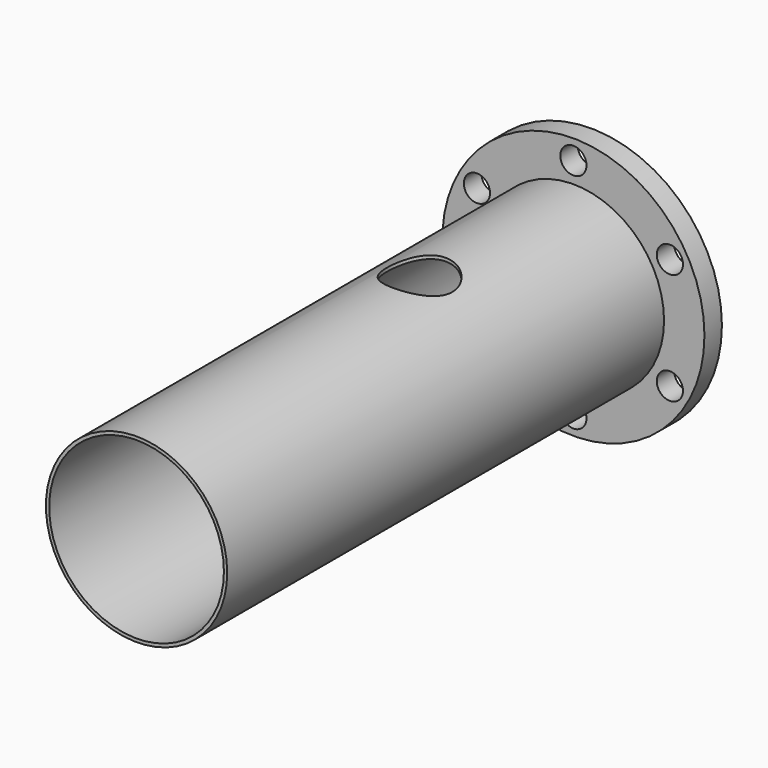
from build123d import *

# Parameters (mm, degrees)
F0_R          = 60
F0_R_2        = 6
F0_R_3        = 40
F1_DEPTH      = 10
F2_R          = 41.5
F2_R_2        = 40
F3_DEPTH      = 250
F4_R          = 15
F5_DEPTH      = 70.8
F5_DEPTH_BACK = 74.6


with BuildPart() as f1:
    # F0 (on Front) → F1 (new body)
    with BuildSketch(Plane.XZ):
        Circle(F0_R)
        with Locations((-44.167295593, -25.5)):
            Circle(F0_R_2, mode=Mode.SUBTRACT)
        with Locations((0, -51)):
            Circle(F0_R_2, mode=Mode.SUBTRACT)
        with Locations((44.167295593, -25.5)):
            Circle(F0_R_2, mode=Mode.SUBTRACT)
        with Locations((-44.167295593, 25.5)):
            Circle(F0_R_2, mode=Mode.SUBTRACT)
        Circle(F0_R_3, mode=Mode.SUBTRACT)
        with Locations((44.167295593, 25.5)):
            Circle(F0_R_2, mode=Mode.SUBTRACT)
        with Locations((0, 51)):
            Circle(F0_R_2, mode=Mode.SUBTRACT)
    extrude(amount=F1_DEPTH)

    # F2 (on face) → F3 (join)
    with BuildSketch(Plane.XZ.offset(10)):
        Circle(F2_R)
        Circle(F2_R_2, mode=Mode.SUBTRACT)
    extrude(amount=F3_DEPTH)

    # F4 (on Top) → F5 (cut, two sides)
    with BuildSketch(Plane.XY) as f5_sk:
        with Locations((0, -98)):
            Circle(F4_R)
    extrude(amount=-F5_DEPTH, mode=Mode.SUBTRACT)
    extrude(f5_sk.sketch, amount=F5_DEPTH_BACK, mode=Mode.SUBTRACT)


solid = f1.part
